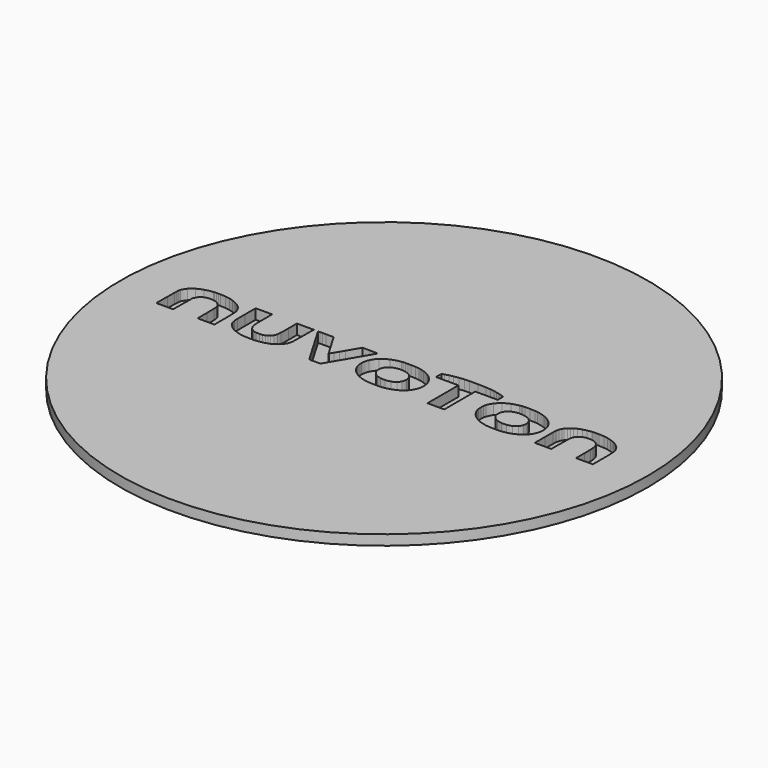
from build123d import *

# Parameters (mm, degrees)
F0_R     = 26
F1_DEPTH = 2
F2_SIZE2 = 2.7474774195
F2_SIZE  = 1
F4_DEPTH = 1


with BuildPart() as f1:
    # F0 (on Top) → F1 (new body)
    with BuildSketch(Plane.XY):
        Circle(F0_R)
    extrude(amount=F1_DEPTH)

    # F2
    f2_edges = [f1.edges().sort_by_distance(p)[0] for p in [
        (-26, 0, 0),
    ]]
    f2_side = f1.faces().sort_by_distance((-26, 0, 1))[0]
    chamfer(f2_edges, length=F2_SIZE, length2=F2_SIZE2, reference=f2_side)

    # F3 (on face) → F4 (cut)
    with BuildSketch(Plane.XY.offset(2)):
        with BuildLine():
            ThreePointArc((5.4380095315, 3.7296937068), (5.189909806, 3.723758513), (4.9422769964, 3.7074278078))
            ThreePointArc((4.9422769947, 3.7074278268), (4.69532569, 3.6831961305), (4.4489666393, 3.65354246))
            ThreePointArc((4.4489666407, 3.6535424498), (4.2192572267, 3.620185561), (3.9905259122, 3.5806750224))
            ThreePointArc((3.9905259105, 3.5806750314), (3.7834165172, 3.5388880207), (3.5776171374, 3.4910646966))
            ThreePointArc((3.5776171423, 3.4910646768), (3.3988762243, 3.4426340155), (3.2224001992, 3.3865086447))
            Line((3.2224001967, 3.386508652), (3.0035067859, 3.3116357543))
            Line((3.0035067859, 3.3116357543), (2.9946312209, 2.9783134989))
            Line((2.9946312209, 2.9783134989), (2.9857556873, 2.6449912436))
            Line((2.9857556873, 2.6449912436), (4.0969158969, 2.6449912436))
            Line((4.0969158969, 2.6449912436), (5.2080761377, 2.6449912436))
            Line((5.2080761377, 2.6449912436), (5.2080761377, 0.7374915208))
            Line((5.2080761377, 0.7374915208), (5.2080761377, -1.1700082021))
            Line((5.2080761377, -1.1700082021), (6.0367440501, -1.1700082021))
            Line((6.0367440501, -1.1700082021), (6.8654119625, -1.1700082021))
            Line((6.8654119625, -1.1700082021), (6.8654119625, 0.7374915208))
            Line((6.8654119625, 0.7374915208), (6.8654119625, 2.6449912436))
            Line((6.8654119625, 2.6449912436), (7.9765722033, 2.6449912436))
            Line((7.9765722033, 2.6449912436), (9.0877324129, 2.6449912436))
            Line((9.0877324129, 2.6449912436), (9.0788568792, 2.9806978423))
            Line((9.0788568792, 2.9806978423), (9.0699813143, 3.316404441))
            Line((9.0699813143, 3.316404441), (8.8198174162, 3.3993758321))
            ThreePointArc((8.8198174113, 3.3993758173), (8.6914804248, 3.4394602211), (8.5618182871, 3.4750252543))
            ThreePointArc((8.5618182941, 3.4750252819), (8.4101722746, 3.5119682836), (8.257734663, 3.5454955138))
            ThreePointArc((8.2577346649, 3.5454955228), (8.0884273681, 3.5789307714), (7.9184680766, 3.6088759846))
            ThreePointArc((7.9184680768, 3.6088759859), (7.7361432623, 3.6374955723), (7.5533626851, 3.6630431619))
            ThreePointArc((7.5533626821, 3.6630431392), (7.3212613198, 3.687955754), (7.0882448918, 3.7019208913))
            ThreePointArc((7.0882448923, 3.7019209061), (6.676416692, 3.7148957249), (6.2644823185, 3.7238892993))
            ThreePointArc((6.2644823183, 3.7238892874), (5.8512603982, 3.7288523111), (5.4380095315, 3.7296937152))
        make_face()
        with BuildLine():
            ThreePointArc((-19.1157534309, 3.0297655952), (-19.1744133471, 3.0259071531), (-19.2328707877, 3.0196941836))
            ThreePointArc((-19.2328707864, 3.0196941734), (-19.6329006517, 2.952778667), (-20.0263518643, 2.8543016573))
            ThreePointArc((-20.0263518662, 2.8543016636), (-20.3514532492, 2.7360880225), (-20.6588844677, 2.57749603))
            ThreePointArc((-20.6588844667, 2.5774960284), (-20.9050486347, 2.4033389333), (-21.1221201204, 2.1940366125))
            ThreePointArc((-21.1221201149, 2.1940366076), (-21.2902689639, 1.9664820843), (-21.4141957252, 1.7121255347))
            ThreePointArc((-21.4141957281, 1.7121255359), (-21.4376462623, 1.6388442745), (-21.4533398725, 1.563519767))
            ThreePointArc((-21.4533398695, 1.5635197665), (-21.4657533219, 1.4666313738), (-21.4731469414, 1.3692312258))
            ThreePointArc((-21.4731469423, 1.3692312258), (-21.4798722921, 1.2013888417), (-21.4832777363, 1.0334462944))
            ThreePointArc((-21.483277743, 1.0334462944), (-21.4873289728, 0.6079465258), (-21.4906423805, 0.182440372))
            Line((-21.4906423692, 0.1824403719), (-21.5, -1.1700082021))
            Line((-21.5, -1.1700082021), (-20.6711992819, -1.1700082021))
            Line((-20.6711992819, -1.1700082021), (-19.8423985324, -1.1700082021))
            Line((-19.8423985324, -1.1700082021), (-19.8331737074, 0.0112022455))
            Line((-19.8331737074, 0.0112022455), (-19.8239489137, 1.1924126619))
            Line((-19.8239489137, 1.1924126619), (-19.7213108566, 1.4008081636))
            ThreePointArc((-19.7213108526, 1.4008081617), (-19.6988210086, 1.4442825531), (-19.6746311128, 1.4868344596))
            ThreePointArc((-19.6746311127, 1.4868344595), (-19.6476916605, 1.5303884847), (-19.6192655581, 1.5729871219))
            ThreePointArc((-19.6192655765, 1.5729871346), (-19.5921692959, 1.6106790959), (-19.5637637443, 1.647394447))
            ThreePointArc((-19.5637637276, 1.6473944336), (-19.5420389374, 1.6719533569), (-19.5180526859, 1.6943088253))
            ThreePointArc((-19.5180526919, 1.6943088323), (-19.4119176246, 1.7725185591), (-19.296285552, 1.8358481543))
            ThreePointArc((-19.2962855429, 1.8358481347), (-19.1606636756, 1.890798592), (-19.0203073618, 1.9321863776))
            ThreePointArc((-19.0203073702, 1.9321864121), (-18.8700631178, 1.9611629198), (-18.7177588361, 1.9758727512))
            ThreePointArc((-18.7177588352, 1.9758727338), (-18.5669408555, 1.9758666738), (-18.4168531307, 1.9610431143))
            ThreePointArc((-18.416853131, 1.9610431129), (-18.3015892555, 1.9407493017), (-18.1875690381, 1.914348738))
            ThreePointArc((-18.1875690356, 1.9143487476), (-18.09602095, 1.8858109785), (-18.0076310826, 1.848626471))
            ThreePointArc((-18.0076310865, 1.8486264629), (-17.9295951768, 1.8060413377), (-17.8565348752, 1.755392661))
            ThreePointArc((-17.856534869, 1.7553926691), (-17.7834359324, 1.6935464074), (-17.7158798713, 1.6256892544))
            ThreePointArc((-17.7158798889, 1.6256892384), (-17.631744053, 1.5230439488), (-17.5591274449, 1.411950643))
            ThreePointArc((-17.5591274346, 1.411950649), (-17.5118927011, 1.3105329518), (-17.4834108866, 1.202341198))
            ThreePointArc((-17.4834109029, 1.2023411952), (-17.4617254385, 1.0382012815), (-17.4521778448, 0.8729105857))
            ThreePointArc((-17.4521778444, 0.8729105857), (-17.4442961151, 0.4338832828), (-17.4389775397, -0.0051825518))
            Line((-17.4389775254, -0.0051825517), (-17.4282674148, -1.1700082021))
            Line((-17.4282674148, -1.1700082021), (-16.6013441142, -1.1700082021))
            Line((-16.6013441142, -1.1700082021), (-15.7744208136, -1.1700082021))
            Line((-15.7744208136, -1.1700082021), (-15.7750402506, 0.0260879356))
            ThreePointArc((-15.7750402539, 0.0260879356), (-15.775719573, 0.2628610738), (-15.7775121858, 0.4996284004))
            ThreePointArc((-15.7775121837, 0.4996284004), (-15.7803264784, 0.7163287591), (-15.7844686475, 0.9330078032))
            ThreePointArc((-15.784468655, 0.9330078031), (-15.7889086453, 1.1144945575), (-15.7941768906, 1.2959591577))
            ThreePointArc((-15.7941768634, 1.2959591586), (-15.7982857964, 1.3650745331), (-15.8062671286, 1.4338503768))
            ThreePointArc((-15.8062671648, 1.4338503716), (-15.8474488595, 1.6256383405), (-15.9142186081, 1.8100844238))
            ThreePointArc((-15.9142185976, 1.8100844285), (-16.0057038474, 1.9850142552), (-16.1196209197, 2.1462373797))
            ThreePointArc((-16.119620931, 2.1462373705), (-16.261279075, 2.3001888928), (-16.4209109757, 2.4354137325))
            ThreePointArc((-16.4209109582, 2.435413756), (-16.6107205175, 2.5634078094), (-16.8118036209, 2.6728414973))
            ThreePointArc((-16.8118036238, 2.6728414914), (-17.0005029246, 2.7575369725), (-17.1938034588, 2.8311281003))
            ThreePointArc((-17.1938034549, 2.8311281115), (-17.385876095, 2.8912085474), (-17.5813546154, 2.9390594189))
            ThreePointArc((-17.5813546176, 2.9390594087), (-17.7957369416, 2.9780737893), (-18.0119941006, 3.004808485))
            ThreePointArc((-18.0119941018, 3.0048084718), (-18.2688419294, 3.0246660688), (-18.5262236927, 3.0356094958))
            ThreePointArc((-18.5262236922, 3.0356095138), (-18.627138677, 3.0375303001), (-18.7280696219, 3.0382143764))
            ThreePointArc((-18.7280696219, 3.03821437), (-18.8309098042, 3.0376855586), (-18.9337369612, 3.035965522))
            ThreePointArc((-18.9337369612, 3.0359655225), (-19.0247630672, 3.0333902166), (-19.1157534305, 3.0297655857))
        make_face()
        with BuildLine():
            ThreePointArc((18.1636773214, 3.0303522264), (18.1067811848, 3.0266866039), (18.0500833044, 3.0206901458))
            ThreePointArc((18.0500833083, 3.0206901153), (17.8413458333, 2.9900853241), (17.6339754416, 2.9512844564))
            ThreePointArc((17.6339754397, 2.9512844652), (17.4380334083, 2.9059444364), (17.2443540504, 2.851747534))
            ThreePointArc((17.2443540539, 2.8517475226), (17.0683696654, 2.7934188874), (16.8954494665, 2.7265508125))
            ThreePointArc((16.8954494545, 2.7265508416), (16.746295752, 2.6583736023), (16.6023198433, 2.5798503535))
            ThreePointArc((16.6023198496, 2.5798503429), (16.5102794676, 2.5205145142), (16.4230155948, 2.4543541862))
            ThreePointArc((16.4230155982, 2.454354182), (16.3262942402, 2.37107307), (16.2337013797, 2.2832247525))
            ThreePointArc((16.2337013778, 2.2832247545), (16.1480049326, 2.1936538426), (16.0667553451, 2.1000304828))
            ThreePointArc((16.0667553342, 2.1000304918), (16.0085512034, 2.0220239698), (15.9583352078, 1.93865076))
            ThreePointArc((15.9583352099, 1.9386507588), (15.9010338296, 1.8184269687), (15.855490362, 1.6932750592))
            ThreePointArc((15.85549037, 1.6932750567), (15.8230389068, 1.566521945), (15.8035302992, 1.437143187))
            ThreePointArc((15.8035303115, 1.4371431857), (15.7882924353, 1.2390904835), (15.781932598, 1.0405542948))
            ThreePointArc((15.7819325789, 1.040554295), (15.7786088195, 0.5808560483), (15.7775008315, 0.1211471211))
            Line((15.7775008315, 0.1211471211), (15.7775008315, -1.1700082021))
            Line((15.7775008315, -1.1700082021), (16.5873334036, -1.1700082021))
            Line((16.5873334036, -1.1700082021), (17.3971659758, -1.1700082021))
            Line((17.3971659758, -1.1700082021), (17.4112973279, -0.0364530389))
            ThreePointArc((17.4112973327, -0.036453039), (17.4176456094, 0.3741173598), (17.4264538879, 0.7846423496))
            ThreePointArc((17.4264538795, 0.7846423498), (17.435738711, 0.9604538236), (17.4549589925, 1.135458004))
            ThreePointArc((17.4549590136, 1.1354580011), (17.4780676051, 1.2475370566), (17.5156463999, 1.355627555))
            ThreePointArc((17.5156463615, 1.3556275712), (17.567511379, 1.4595094581), (17.6319896506, 1.5560702108))
            ThreePointArc((17.631989666, 1.5560701991), (17.7043977491, 1.6404797631), (17.7860011628, 1.7160362841))
            ThreePointArc((17.7860011636, 1.7160362832), (17.8759891345, 1.7820173167), (17.9728814762, 1.8373635524))
            ThreePointArc((17.972881472, 1.8373635609), (18.0837495574, 1.8856412774), (18.1989901115, 1.9222757556))
            ThreePointArc((18.1989901129, 1.9222757503), (18.3337633886, 1.9526602679), (18.4703151252, 1.9736525988))
            ThreePointArc((18.4703151272, 1.9736525827), (18.5583983521, 1.9803572564), (18.6467335829, 1.9796542955))
            ThreePointArc((18.6467335827, 1.9796542912), (18.755291983, 1.9717635038), (18.8633819899, 1.9589673632))
            ThreePointArc((18.8633819943, 1.9589673945), (18.9696701718, 1.9414749547), (19.0750576148, 1.9191893322))
            ThreePointArc((19.075057613, 1.9191893243), (19.1562647627, 1.8960668915), (19.2349822669, 1.8655250742))
            ThreePointArc((19.2349822692, 1.8655250795), (19.3041338183, 1.8307788212), (19.3695417736, 1.789414119))
            ThreePointArc((19.369541759, 1.7894140982), (19.4382741715, 1.7373122034), (19.5031292176, 1.6804564652))
            ThreePointArc((19.5031292239, 1.6804564718), (19.5634895906, 1.6194132356), (19.6193434868, 1.5542212663))
            ThreePointArc((19.619343489, 1.5542212681), (19.6637243947, 1.4922909472), (19.7015786136, 1.4261691842))
            ThreePointArc((19.7015786033, 1.4261691789), (19.7449739382, 1.326592003), (19.776543275, 1.2226586299))
            ThreePointArc((19.7765432792, 1.2226586309), (19.8017849469, 1.0983062942), (19.8178691685, 0.9724415127))
            ThreePointArc((19.8178691997, 0.9724415155), (19.831503381, 0.7815053716), (19.8377844978, 0.590186137))
            ThreePointArc((19.837784478, 0.5901861367), (19.8414441293, 0.2310063614), (19.8426641752, -0.1281899853))
            Line((19.8426641752, -0.1281899853), (19.8426641752, -1.1700082021))
            Line((19.8426641752, -1.1700082021), (20.6713320876, -1.1700082021))
            Line((20.6713320876, -1.1700082021), (21.5, -1.1700082021))
            Line((21.5, -1.1700082021), (21.4993805629, 0.010452692))
            ThreePointArc((21.4993805747, 0.010452692), (21.4980655669, 0.4105396536), (21.4945397155, 0.81061324))
            ThreePointArc((21.4945396977, 0.8106132398), (21.4887988762, 1.0297637422), (21.4766556679, 1.2486528517))
            ThreePointArc((21.4766556653, 1.2486528515), (21.4624920826, 1.3944165896), (21.4405313738, 1.5392109322))
            ThreePointArc((21.4405313636, 1.5392109304), (21.4134669248, 1.6584924429), (21.3756127082, 1.7748007459))
            ThreePointArc((21.3756127173, 1.7748007493), (21.3147568914, 1.9097472088), (21.2373659876, 2.0359400236))
            ThreePointArc((21.2373659764, 2.0359400157), (21.1377473088, 2.1638884206), (21.0262789323, 2.2816571529))
            ThreePointArc((21.0262789466, 2.2816571678), (20.8934831409, 2.3982838623), (20.7509461529, 2.5027813213))
            ThreePointArc((20.7509461628, 2.5027813361), (20.589394679, 2.602507664), (20.4211681953, 2.6905080767))
            ThreePointArc((20.4211681891, 2.6905080636), (20.2403090864, 2.7704617361), (20.0549572612, 2.8393624305))
            ThreePointArc((20.0549572622, 2.8393624333), (19.8666126275, 2.8966236635), (19.6751200002, 2.9422649122))
            ThreePointArc((19.6751200007, 2.9422649147), (19.4637681434, 2.9798345754), (19.2506718242, 3.005739127))
            ThreePointArc((19.2506718249, 3.0057391346), (18.999689604, 3.0249471555), (18.7481971214, 3.0355563268))
            ThreePointArc((18.7481971213, 3.0355563216), (18.6475952266, 3.0374826967), (18.5469776021, 3.0382214741))
            ThreePointArc((18.5469776021, 3.0382214626), (18.4450783004, 3.0377890796), (18.3431904947, 3.0361985745))
            ThreePointArc((18.3431904945, 3.0361985839), (18.2534174447, 3.0337809121), (18.1636773216, 3.0303522222))
        make_face()
        with BuildLine():
            ThreePointArc((-0.5431568556, 2.997884432), (-0.5993042034, 2.994133193), (-0.6551402211, 2.987137796))
            ThreePointArc((-0.6551402234, 2.9871378108), (-1.1320187244, 2.8832665396), (-1.5927541055, 2.7222533281))
            ThreePointArc((-1.5927541054, 2.7222533279), (-1.9748981495, 2.5210725338), (-2.3161704356, 2.2564199141))
            ThreePointArc((-2.3161704357, 2.2564199142), (-2.5749065822, 1.9635649312), (-2.7702728835, 1.6251266902))
            ThreePointArc((-2.7702728819, 1.6251266895), (-2.8902970753, 1.2605065987), (-2.93130935, 0.8788370938))
            ThreePointArc((-2.9313093548, 0.8788370939), (-2.8976431967, 0.5177741264), (-2.7967151711, 0.1694733794))
            ThreePointArc((-2.7967151859, 0.1694733736), (-2.6323673999, -0.1524232537), (-2.4099129516, -0.4372769912))
            ThreePointArc((-2.4099129525, -0.4372769921), (-2.1169575858, -0.6976875755), (-1.7838978062, -0.9043459943))
            ThreePointArc((-1.7838978091, -0.904346), (-1.3788055331, -1.0802117777), (-0.95554654, -1.2062290327))
            ThreePointArc((-0.9555465382, -1.206229025), (-0.7865477423, -1.2387699887), (-0.6155254568, -1.2580283689))
            ThreePointArc((-0.6155254576, -1.2580283795), (-0.3390774225, -1.2754542547), (-0.0623328698, -1.2872707571))
            ThreePointArc((-0.0623328698, -1.2872707587), (0.2168114907, -1.2934391393), (0.4960237889, -1.2937788349))
            ThreePointArc((0.4960237889, -1.2937788345), (0.6822650781, -1.2858566845), (0.8675667113, -1.2655617837))
            ThreePointArc((0.8675667114, -1.2655617845), (1.3601579698, -1.1645424051), (1.8371466025, -1.0053792588))
            ThreePointArc((1.8371466026, -1.0053792588), (2.2290350651, -0.8057828006), (2.5793299455, -0.5398715185))
            ThreePointArc((2.5793299463, -0.5398715194), (2.8436084798, -0.2444128662), (3.0421203365, 0.0987081063))
            ThreePointArc((3.0421203288, 0.0987081097), (3.1643310695, 0.4719836281), (3.2056790229, 0.8625734698))
            ThreePointArc((3.2056790229, 0.8625734698), (3.179145005, 1.1774392403), (3.1002919095, 1.4834240387))
            ThreePointArc((3.1002919227, 1.4834240433), (2.9713754872, 1.7717163365), (2.7959563763, 2.0343187532))
            ThreePointArc((2.7959563837, 2.0343187591), (2.5684560529, 2.2776359242), (2.3056371708, 2.4822963224))
            ThreePointArc((2.3056371592, 2.4822963048), (1.9921387318, 2.662330774), (1.6588758314, 2.8024361391))
            ThreePointArc((1.6588758336, 2.8024361454), (1.4986536098, 2.8550879357), (1.336564292, 2.9016757567))
            ThreePointArc((1.3365642935, 2.9016757623), (1.1959555242, 2.9347824131), (1.0536232332, 2.9594480832))
            ThreePointArc((1.0536232346, 2.9594480928), (0.889350351, 2.9789055232), (0.7243360276, 2.990500563))
            ThreePointArc((0.7243360262, 2.9905005337), (0.4802606938, 2.9999026615), (0.2360686632, 3.0055080223))
            ThreePointArc((0.2360686635, 3.0055080427), (0.0945058946, 3.0070718222), (-0.0470649602, 3.0074668261))
            ThreePointArc((-0.0470649602, 3.0074668408), (-0.1815161674, 3.0066391883), (-0.3159531575, 3.0045160325))
            ThreePointArc((-0.3159531574, 3.00451603), (-0.4295692153, 3.0016870321), (-0.5431568569, 2.9978844663))
        make_face()
        with BuildLine():
            ThreePointArc((-0.0181537065, 1.9163536242), (0.2513020137, 1.9139510322), (0.5188086244, 1.8815107673))
            ThreePointArc((0.5188086218, 1.8815107526), (0.7290039104, 1.829835629), (0.9308047003, 1.7515488549))
            ThreePointArc((0.9308047033, 1.7515488615), (1.0966376826, 1.6550877563), (1.2419553095, 1.5298355742))
            ThreePointArc((1.2419553052, 1.52983557), (1.3532689661, 1.388306707), (1.4340226088, 1.2273719397))
            ThreePointArc((1.4340226085, 1.2273719396), (1.4842877491, 1.0480422852), (1.5012296436, 0.8625734698))
            ThreePointArc((1.5012296436, 0.8625734698), (1.4794768521, 0.6521765878), (1.4151384643, 0.450680673))
            ThreePointArc((1.4151384724, 0.4506806694), (1.312518713, 0.2740311363), (1.1725730146, 0.1251987672))
            ThreePointArc((1.1725729986, 0.125198786), (0.9865972714, -0.0028854616), (0.7790828925, -0.0919378518))
            ThreePointArc((0.7790828968, -0.0919378655), (0.5213441497, -0.1564763389), (0.2576576208, -0.1890936784))
            ThreePointArc((0.2576576195, -0.189093657), (0.0222611503, -0.1910712476), (-0.2119989861, -0.1678851071))
            ThreePointArc((-0.2119989869, -0.1678851125), (-0.4214307237, -0.1204843522), (-0.6221384733, -0.0441634263))
            ThreePointArc((-0.6221384795, -0.0441634397), (-0.7918687599, 0.0514345735), (-0.9444002357, 0.1726018013))
            ThreePointArc((-0.9444002232, 0.1726018147), (-1.0652957485, 0.3092865311), (-1.1578429936, 0.4665552412))
            ThreePointArc((-1.1578430274, 0.4665552255), (-1.1956394751, 0.5628240153), (-1.2213129276, 0.6630094693))
            ThreePointArc((-1.2213128942, 0.6630094757), (-1.2359345629, 0.7702811773), (-1.2389605521, 0.8785024993))
            ThreePointArc((-1.2389605462, 0.8785024992), (-1.2303190335, 0.9878872987), (-1.210146199, 1.095742604))
            ThreePointArc((-1.2101462074, 1.095742606), (-1.1789611614, 1.1986283557), (-1.1363992657, 1.2973525655))
            ThreePointArc((-1.1363992878, 1.2973525765), (-1.0272273603, 1.4669817043), (-0.8841101194, 1.6091436052))
            ThreePointArc((-0.8841101079, 1.6091435908), (-0.7010890014, 1.7316923869), (-0.5002284793, 1.822080348))
            ThreePointArc((-0.5002284827, 1.8220803575), (-0.2626418728, 1.8868628528), (-0.0181537062, 1.9163536182))
        make_face(mode=Mode.SUBTRACT)
        with BuildLine():
            ThreePointArc((11.4707550557, 3.0223984214), (11.3721923307, 3.0179517092), (11.274550665, 3.0037922909))
            ThreePointArc((11.2745506676, 3.0037922777), (11.259683734, 3.0009789798), (11.2447817264, 2.9983578106))
            ThreePointArc((11.2447817268, 2.9983578087), (11.2086600193, 2.9922675578), (11.1725307031, 2.9862226082))
            ThreePointArc((11.1725306979, 2.9862226389), (11.1294497473, 2.9790775857), (11.0863574905, 2.9720010402))
            ThreePointArc((11.0863574965, 2.9720010035), (11.0397416437, 2.9644140245), (10.9931162833, 2.9568856942))
            ThreePointArc((10.9931162802, 2.9568857134), (10.6287401417, 2.877579239), (10.2752379212, 2.7588540639))
            ThreePointArc((10.27523792, 2.7588540667), (9.9581888731, 2.6078485318), (9.6636288408, 2.4166492715))
            ThreePointArc((9.6636288432, 2.4166492683), (9.4161172437, 2.2027873874), (9.2014749967, 1.955952216))
            ThreePointArc((9.2014749844, 1.9559522253), (9.0380017986, 1.6948439877), (8.921147569, 1.4098070019))
            ThreePointArc((8.9211475834, 1.4098069974), (8.8879185315, 1.283052808), (8.8668701459, 1.1537169666))
            ThreePointArc((8.8668701564, 1.1537169654), (8.8539827417, 1.000798603), (8.8502028912, 0.8473847062))
            ThreePointArc((8.8502028929, 0.8473847062), (8.8555057508, 0.6956531775), (8.8698509854, 0.5445082425))
            ThreePointArc((8.8698509702, 0.5445082406), (8.8919483978, 0.4206233619), (8.9267971527, 0.299704696))
            ThreePointArc((8.9267971501, 0.2997046951), (9.054356879, 0.0075707952), (9.2263241397, -0.260833678))
            ThreePointArc((9.2263241359, -0.2608336809), (9.4420247854, -0.5054117846), (9.6913792947, -0.715572551))
            ThreePointArc((9.6913792937, -0.7155725524), (9.9901689502, -0.9026276183), (10.3112961635, -1.0480310895))
            ThreePointArc((10.3112961699, -1.0480310722), (10.6836674233, -1.1668028152), (11.0659258882, -1.2483230168))
            ThreePointArc((11.0659258857, -1.248323032), (11.2267328933, -1.2695922643), (11.3885092016, -1.2814117409))
            ThreePointArc((11.3885092026, -1.2814117189), (11.6346545889, -1.2899783298), (11.8809130884, -1.2941842119))
            ThreePointArc((11.8809130884, -1.2941842196), (12.1268444373, -1.2940384405), (12.3727349995, -1.2895572512))
            ThreePointArc((12.3727349988, -1.2895572244), (12.5324711056, -1.2804195505), (12.691367878, -1.2616862476))
            ThreePointArc((12.6913678812, -1.2616862694), (12.8357578323, -1.2377591205), (12.9792648758, -1.209006818))
            ThreePointArc((12.9792648742, -1.2090068106), (13.1124292883, -1.1771305113), (13.2441782792, -1.139833554))
            ThreePointArc((13.2441782816, -1.1398335619), (13.3734440865, -1.097433839), (13.5008522885, -1.0497417546))
            ThreePointArc((13.5008522778, -1.0497417277), (13.633413477, -0.9942744877), (13.7639528685, -0.9342032505))
            ThreePointArc((13.7639528772, -0.9342032686), (13.9688373922, -0.8243167047), (14.1633967651, -0.6970399518))
            ThreePointArc((14.1633967665, -0.6970399537), (14.335090464, -0.5598141627), (14.4917758788, -0.4056735636))
            ThreePointArc((14.4917758752, -0.4056735604), (14.62602208, -0.2424521753), (14.7419550315, -0.065752388))
            ThreePointArc((14.7419550352, -0.0657523902), (14.8365457191, 0.1200885391), (14.9097655072, 0.315339944))
            ThreePointArc((14.9097654982, 0.3153399468), (14.9424947206, 0.4398341446), (14.9637311971, 0.5667948446))
            ThreePointArc((14.9637312107, 0.5667948429), (14.9770599037, 0.7144172891), (14.9815081392, 0.8625734698))
            ThreePointArc((14.9815081392, 0.8625734698), (14.9770599037, 1.0107296505), (14.9637312107, 1.1583520966))
            ThreePointArc((14.9637311971, 1.158352095), (14.9424947206, 1.285312795), (14.9097654982, 1.4098069928))
            ThreePointArc((14.9097655148, 1.409806998), (14.7902657265, 1.7022171749), (14.6229074167, 1.9701259412))
            ThreePointArc((14.622907401, 1.9701259294), (14.4062469261, 2.2175894527), (14.1548054718, 2.4296204687))
            ThreePointArc((14.1548054899, 2.4296204938), (13.8489058484, 2.6203520511), (13.5201211338, 2.7681821194))
            ThreePointArc((13.5201211257, 2.7681820976), (13.1371886701, 2.8892106358), (12.7442635654, 2.9722469812))
            ThreePointArc((12.7442635654, 2.9722469811), (12.6092675948, 2.9899363556), (12.4734723732, 2.9997589751))
            ThreePointArc((12.4734723735, 2.9997589819), (12.2239771208, 3.0091791715), (11.9743943338, 3.0158913637))
            ThreePointArc((11.9743943344, 3.015891396), (11.7225885909, 3.0202204399), (11.4707550558, 3.0223984404))
        make_face()
        with BuildLine():
            ThreePointArc((12.2989837741, 1.8799170895), (12.3816120106, 1.8658598934), (12.4628291822, 1.8451523762))
            ThreePointArc((12.4628291825, 1.845152377), (12.6243211758, 1.7881336367), (12.7794304843, 1.7155257648))
            ThreePointArc((12.7794304787, 1.7155257543), (12.906209029, 1.6359666601), (13.0199831423, 1.5387149175))
            ThreePointArc((13.019983149, 1.5387149243), (13.1114740728, 1.4322956149), (13.184840474, 1.3126585399))
            ThreePointArc((13.1848404411, 1.3126585232), (13.2412742704, 1.1785332183), (13.2779261455, 1.0377105832))
            ThreePointArc((13.2779261869, 1.0377105909), (13.2934780104, 0.8224149293), (13.2613774714, 0.608958525))
            ThreePointArc((13.2613774542, 0.6089585296), (13.1833901448, 0.4117534373), (13.0619283401, 0.2379175985))
            ThreePointArc((13.061928341, 0.2379175977), (12.8922612003, 0.0829435987), (12.6942188083, -0.0336029157))
            ThreePointArc((12.6942188066, -0.0336029118), (12.4519975476, -0.1231459648), (12.1992524641, -0.1761461477))
            ThreePointArc((12.1992524656, -0.1761461585), (11.949202814, -0.1956005927), (11.6985347256, -0.1873052499))
            ThreePointArc((11.6985347248, -0.1873052594), (11.4696422636, -0.1507252611), (11.2480977685, -0.0825498129))
            ThreePointArc((11.2480977654, -0.082549821), (11.0577844918, 0.0086376135), (10.8840127862, 0.1283776848))
            ThreePointArc((10.8840128024, 0.1283777047), (10.7446846944, 0.2660169593), (10.6347280118, 0.4280861237))
            ThreePointArc((10.6347280248, 0.4280861307), (10.6099291727, 0.4763593767), (10.5874623103, 0.5257610917))
            ThreePointArc((10.5874623007, 0.5257610876), (10.5725226976, 0.5660172639), (10.5614766832, 0.6075110831))
            ThreePointArc((10.5614766786, 0.6075110821), (10.553261827, 0.6545118702), (10.5487864881, 0.7020148092))
            ThreePointArc((10.5487864896, 0.7020148092), (10.5457229975, 0.7742759348), (10.5443968631, 0.8465898104))
            ThreePointArc((10.5443968566, 0.8465898104), (10.5448364448, 0.9183225058), (10.5470614773, 0.990022032))
            ThreePointArc((10.5470614826, 0.9900220317), (10.5510154415, 1.0389112378), (10.5585953515, 1.0873708419))
            ThreePointArc((10.5585953404, 1.087370844), (10.5690707132, 1.1309703348), (10.5832867358, 1.1734974289))
            ThreePointArc((10.5832867248, 1.1734974331), (10.6045776719, 1.2255506836), (10.6281632825, 1.2766052063))
            ThreePointArc((10.628163316, 1.2766051899), (10.68865425, 1.3824113563), (10.7622242099, 1.4795790409))
            ThreePointArc((10.7622242003, 1.4795790493), (10.8502524653, 1.5703508078), (10.9481390681, 1.6503926755))
            ThreePointArc((10.9481390617, 1.6503926844), (11.0581214089, 1.7212366593), (11.1752797817, 1.7794509286))
            ThreePointArc((11.1752797805, 1.7794509314), (11.3010314064, 1.825921448), (11.4309031014, 1.859182885))
            ThreePointArc((11.4309031046, 1.8591828688), (11.4661256314, 1.8663230407), (11.5013350616, 1.8735275169))
            ThreePointArc((11.5013350581, 1.8735275335), (11.5360447918, 1.8806972778), (11.5707408114, 1.8879330965))
            ThreePointArc((11.5707408164, 1.8879330726), (11.6007225146, 1.8942441555), (11.6306926259, 1.9006100344))
            ThreePointArc((11.6306926207, 1.9006100591), (11.6480783391, 1.904395706), (11.6654317554, 1.9083267708))
            ThreePointArc((11.6654317572, 1.9083267632), (11.7295547832, 1.9187566344), (11.7944916246, 1.920693463))
            ThreePointArc((11.794491624, 1.920693445), (11.9200445138, 1.9148275905), (12.0454415676, 1.9062534842))
            ThreePointArc((12.0454415698, 1.9062535116), (12.1723736145, 1.8946347028), (12.2989837756, 1.8799171012))
        make_face(mode=Mode.SUBTRACT)
        with BuildLine():
            Line((-14.9926586321, 2.9264256289), (-14.9926586321, 1.6196350621))
            ThreePointArc((-14.992658632, 1.6196350621), (-14.9915571002, 1.1546881963), (-14.9882517449, 0.6897517747))
            ThreePointArc((-14.9882517453, 0.6897517747), (-14.9819191752, 0.4893890077), (-14.9667330851, 0.2895022335))
            ThreePointArc((-14.9667330569, 0.2895022363), (-14.9473702214, 0.1599286047), (-14.915068712, 0.0329606644))
            ThreePointArc((-14.9150687325, 0.032960658), (-14.8700388759, -0.0906891136), (-14.8129538648, -0.2092566283))
            ThreePointArc((-14.8129538682, -0.2092566302), (-14.7517145266, -0.307596576), (-14.6794081528, -0.3981106093))
            ThreePointArc((-14.6794081411, -0.3981105987), (-14.5790477357, -0.5031538852), (-14.4725619996, -0.6019824794))
            ThreePointArc((-14.4725620052, -0.6019824858), (-14.3534460138, -0.70008553), (-14.2288210031, -0.7910879113))
            ThreePointArc((-14.2288210018, -0.7910879094), (-14.1072851284, -0.8682610793), (-13.9805336778, -0.9365306658))
            ThreePointArc((-13.9805336894, -0.9365306894), (-13.7857867963, -1.0241633874), (-13.5853326729, -1.097811107))
            ThreePointArc((-13.5853326732, -1.0978111077), (-13.372466293, -1.1602116297), (-13.1560869763, -1.209057431))
            ThreePointArc((-13.1560869762, -1.2090574306), (-12.9162476294, -1.2482639433), (-12.674568501, -1.2737837749))
            ThreePointArc((-12.6745685005, -1.2737837681), (-12.3981526247, -1.2897029021), (-12.1213287248, -1.294964425))
            ThreePointArc((-12.1213287248, -1.2949644115), (-11.6153182815, -1.2724397951), (-11.1132760367, -1.2053017909))
            ThreePointArc((-11.1132760358, -1.2053017963), (-10.6950662994, -1.0992557586), (-10.2961292342, -0.9349561428))
            ThreePointArc((-10.2961292363, -0.9349561387), (-9.9813210043, -0.7425114854), (-9.7045102572, -0.4985545676))
            ThreePointArc((-9.7045102616, -0.4985545635), (-9.4986729625, -0.2281914119), (-9.357313289, 0.0808112905))
            ThreePointArc((-9.3573132836, 0.0808112888), (-9.3344917673, 0.1615410433), (-9.3186415076, 0.2439235908))
            ThreePointArc((-9.3186415256, 0.2439235935), (-9.3060281058, 0.3454398482), (-9.2982484151, 0.4474404598))
            ThreePointArc((-9.2982483815, 0.447440458), (-9.2909665846, 0.6178674274), (-9.2869846271, 0.7884034074))
            ThreePointArc((-9.2869846283, 0.7884034074), (-9.2817956115, 1.1968208521), (-9.2773940324, 1.6052475421))
            Line((-9.2773940471, 1.6052475422), (-9.2644298347, 2.9264256289))
            Line((-9.2644298347, 2.9264256289), (-10.0959625615, 2.9264256289))
            Line((-10.0959625615, 2.9264256289), (-10.9274952883, 2.9264256289))
            Line((-10.9274952883, 2.9264256289), (-10.928038269, 1.8710466839))
            ThreePointArc((-10.928038275, 1.8710466839), (-10.9306027966, 1.4306648004), (-10.9378421359, 0.9903349557))
            ThreePointArc((-10.9378421391, 0.9903349558), (-10.950631481, 0.7805994278), (-10.9797888105, 0.5725071187))
            ThreePointArc((-10.9797887754, 0.5725071123), (-11.0163994469, 0.4344606535), (-11.0747630325, 0.3041116684))
            ThreePointArc((-11.0747630424, 0.3041116738), (-11.1556614025, 0.1786563915), (-11.2534748797, 0.0658907221))
            ThreePointArc((-11.253474868, 0.0658907103), (-11.3275157995, -0.0003549486), (-11.4084402757, -0.0579897996))
            ThreePointArc((-11.4084402893, -0.057989778), (-11.495097979, -0.106181413), (-11.5865862858, -0.1444159339))
            ThreePointArc((-11.5865862946, -0.144415909), (-11.6935584437, -0.1766041322), (-11.8031118375, -0.1984484973))
            ThreePointArc((-11.8031118311, -0.19844854), (-11.9388177159, -0.2152010036), (-12.0752157622, -0.224808562))
            ThreePointArc((-12.0752157635, -0.2248085328), (-12.2684693221, -0.2245940815), (-12.4609151773, -0.2069425452))
            ThreePointArc((-12.4609151772, -0.2069425443), (-12.6215077976, -0.1727341045), (-12.7753886135, -0.11545495))
            ThreePointArc((-12.7753886163, -0.115454956), (-12.9052738401, -0.0422927012), (-13.0212070081, 0.0514216919))
            ThreePointArc((-13.0212070137, 0.0514216861), (-13.1220347197, 0.1645195779), (-13.2036912922, 0.2921501526))
            ThreePointArc((-13.2036912705, 0.2921501641), (-13.2530813524, 0.3991341584), (-13.2899393076, 0.5110557665))
            ThreePointArc((-13.2899393178, 0.5110557638), (-13.3189189148, 0.6402957042), (-13.3373819008, 0.7714517083))
            ThreePointArc((-13.3373819142, 0.7714517069), (-13.3528909368, 0.9688728296), (-13.3600614614, 1.1667723319))
            ThreePointArc((-13.3600614296, 1.1667723324), (-13.3643802726, 1.5423516485), (-13.3659738343, 1.9179524148))
            Line((-13.3659738575, 1.9179524148), (-13.3665932946, 2.9264256289))
            Line((-13.3665932946, 2.9264256289), (-14.1796259633, 2.9264256289))
            Line((-14.1796259633, 2.9264256289), (-14.9926586321, 2.9264256289))
        make_face()
        with BuildLine():
            ThreePointArc((-8.8177303614, 2.909933325), (-8.8259197858, 2.9053122797), (-8.8271608855, 2.8959913139))
            ThreePointArc((-8.8271608602, 2.8959913225), (-8.8223536404, 2.8839511451), (-8.8163706665, 2.8724498731))
            ThreePointArc((-8.8163706751, 2.8724498681), (-8.6435672053, 2.5772625676), (-8.4707424824, 2.2820877097))
            ThreePointArc((-8.4707424891, 2.2820877058), (-8.2779090222, 1.9530853474), (-8.0847972884, 1.6242462438))
            ThreePointArc((-8.084797309, 1.6242462317), (-7.8567285169, 1.2364861442), (-7.6284588956, 0.8488442484))
            Line((-7.6284588824, 0.8488442562), (-6.4401803665, -1.1678684565))
            Line((-6.4401803665, -1.1678684565), (-5.8929468395, -1.1679597976))
            Line((-5.8929468395, -1.1679597976), (-5.3457133125, -1.1680511386))
            Line((-5.3457133125, -1.1680511386), (-4.1496171748, 0.8593934489))
            ThreePointArc((-4.1496171868, 0.8593934559), (-3.9201553669, 1.2486991491), (-3.6910050649, 1.6381882871))
            ThreePointArc((-3.6910050578, 1.6381882829), (-3.4977222246, 1.9675120164), (-3.3048742668, 2.2970905961))
            ThreePointArc((-3.3048742534, 2.2970905883), (-3.1312217888, 2.5943375881), (-2.957590132, 2.8915967429))
            ThreePointArc((-2.9575901471, 2.8915967517), (-2.9545562942, 2.898843833), (-2.9535210371, 2.906631817))
            ThreePointArc((-2.9535210371, 2.906631817), (-2.9558079511, 2.9122667653), (-2.9613750579, 2.9147142008))
            ThreePointArc((-2.9613750581, 2.9147141944), (-3.0692398643, 2.9177343122), (-3.1771085861, 2.9206111829))
            ThreePointArc((-3.1771085863, 2.9206111758), (-3.2999497288, 2.9233063013), (-3.4228087158, 2.9250031472))
            ThreePointArc((-3.4228087157, 2.9250031657), (-3.5687377158, 2.9260700305), (-3.7146701824, 2.9264256289))
            Line((-3.7146701824, 2.9264256289), (-4.4758193278, 2.9264256289))
            Line((-4.4758193278, 2.9264256289), (-5.1724957643, 1.7381471131))
            ThreePointArc((-5.1724957615, 1.7381471114), (-5.3065585193, 1.5101668035), (-5.4412158481, 1.2825371752))
            ThreePointArc((-5.4412158467, 1.2825371744), (-5.555724725, 1.0904842109), (-5.6710583686, 0.8989254087))
            ThreePointArc((-5.671058401, 0.8989254284), (-5.7743947104, 0.7282083138), (-5.8778047598, 0.5575358564))
            ThreePointArc((-5.8778047285, 0.5575358374), (-5.8836063406, 0.551917219), (-5.891418557, 0.5498685972))
            ThreePointArc((-5.891418557, 0.5498685972), (-5.8992304595, 0.5519174256), (-5.9050313079, 0.5575364715))
            ThreePointArc((-5.9050313021, 0.557536475), (-6.0084091586, 0.7282086267), (-6.111713275, 0.8989254216))
            ThreePointArc((-6.1117132954, 0.8989254093), (-6.2270109779, 1.0904842887), (-6.3414838951, 1.2825371749))
            ThreePointArc((-6.3414838817, 1.2825371829), (-6.476098495, 1.5101668668), (-6.6101185374, 1.738147119))
            Line((-6.6101185475, 1.7381471131), (-7.3065721505, 2.9264256289))
            Line((-7.3065721505, 2.9264256289), (-8.0720782753, 2.9264256289))
            ThreePointArc((-8.0720782753, 2.9264256289), (-8.2340311354, 2.9259571093), (-8.3959785765, 2.92455187))
            ThreePointArc((-8.3959785766, 2.9245518791), (-8.5145424975, 2.9223287833), (-8.6330622803, 2.9184036636))
            ThreePointArc((-8.6330622796, 2.9184036466), (-8.7254080771, 2.9144248006), (-8.8177303609, 2.9099333159))
        make_face()
    extrude(amount=-F4_DEPTH, mode=Mode.SUBTRACT)


solid = f1.part
